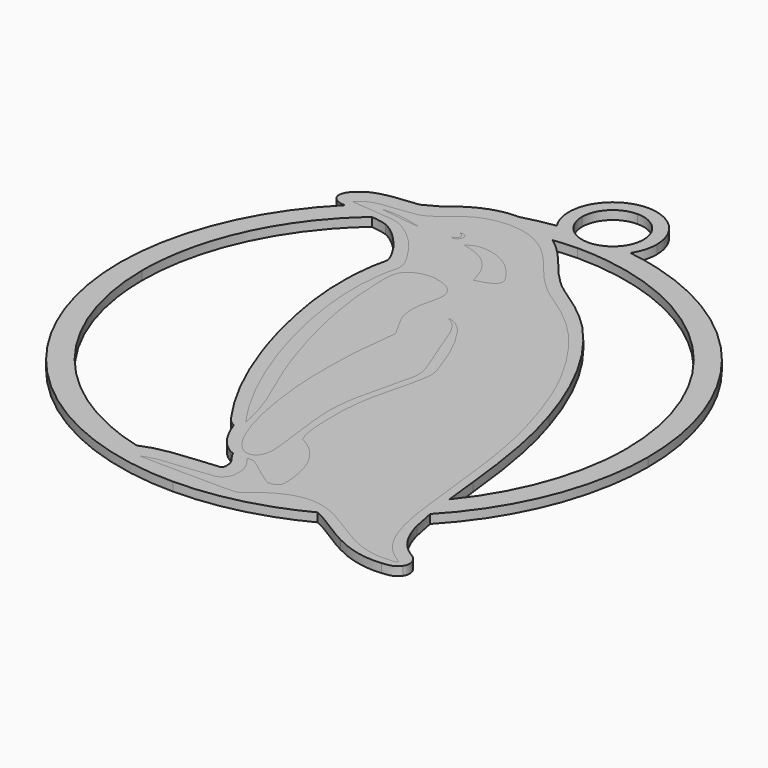
from build123d import *

# Parameters (mm, degrees)
PAD_DEPTH       = 2
POCKET_DEPTH    = 2.001
POCKET001_DEPTH = 2.001
POCKET002_DEPTH = 2.001
PAD001_DEPTH    = 2
POCKET003_DEPTH = 2.001
POCKET004_DEPTH = 2.001
POCKET005_DEPTH = 2.001


with BuildPart() as base:
    # Sketch → Pad (new body)
    with BuildSketch(Plane.XY):
        with BuildLine():
            add(Edge.make_bspline(
                [(100.13239, -65.132458), (90.132575, -65.132758), (90.132483, -75.132365)],
                knots=[1.570826, 1.570826, 1.570826, 3.141583, 3.141583, 3.141583], degree=2, weights=[1, 0.707121, 1]))
            add(Edge.make_bspline(
                [(90.132483, -75.132365), (90.134751, -78.102209), (91.757707, -80.589396)],
                knots=[3.142356, 3.142356, 3.142356, 3.719732, 3.719732, 3.719732], degree=2, weights=[1, 0.958618, 1]))
            add(Edge.make_bspline(
                [(91.757707, -80.589396), (88.025779, -81.140491), (84.392265, -82.154675)],
                knots=[0, 0, 0, 0.125581, 0.125581, 0.125581], degree=2, weights=[1, 0.998029, 1]))
            add(Edge.make_bspline(
                [(84.392265, -82.154675), (84.163042, -82.155004), (83.934076, -82.137701), (83.704968, -82.147441)],
                knots=[0, 0, 0, 0, 1, 1, 1, 1], degree=3))
            add(Edge.make_bspline(
                [(83.704968, -82.147441), (79.179558, -82.226783), (74.869782, -84.299125), (71.587878, -87.34919)],
                knots=[0, 0, 0, 0, 1, 1, 1, 1], degree=3))
            add(Edge.make_bspline(
                [(71.587878, -87.34919), (69.601855, -88.33557), (67.694059, -89.465857)],
                knots=[0, 0, 0, 0.073882, 0.073882, 0.073882], degree=2, weights=[1, 0.999318, 1]))
            add(Edge.make_bspline(
                [(67.694059, -89.465857), (67.40317, -89.518331), (67.108608, -89.555149), (66.805741, -89.555257)],
                knots=[0, 0, 0, 0, 1, 1, 1, 1], degree=3))
            add(Edge.make_bspline(
                [(66.805741, -89.555257), (63.444234, -90.059081), (59.759749, -89.918735), (56.802218, -91.872428)],
                knots=[0, 0, 0, 0, 1, 1, 1, 1], degree=3))
            add(Edge.make_bspline(
                [(56.802218, -91.872428), (55.552251, -92.734481), (54.203645, -93.953245), (54.132613, -95.56936)],
                knots=[0, 0, 0, 0, 1, 1, 1, 1], degree=3))
            add(Edge.make_bspline(
                [(54.132613, -95.56936), (54.261775, -97.125902), (55.949805, -97.96569), (57.366524, -97.901001)],
                knots=[0, 0, 0, 0, 1, 1, 1, 1], degree=3))
            add(Edge.make_bspline(
                [(57.366524, -97.901001), (57.402119, -97.905128), (57.438392, -97.905783), (57.474011, -97.909786)],
                knots=[0, 0, 0, 0, 1, 1, 1, 1], degree=3))
            add(Edge.make_bspline(
                [(57.474011, -97.909786), (40.097219, -115.368172), (40.000142, -140.00024)],
                knots=[0, 0, 0, 0.779115, 0.779115, 0.779115], degree=2, weights=[1, 0.925077, 1]))
            add(Edge.make_bspline(
                [(40.000142, -140.00024), (40.000182, -200.000158), (100.0001, -200.0002)],
                knots=[0, 0, 0, 1.570795, 1.570795, 1.570795], degree=2, weights=[1, 0.707107, 1]))
            add(Edge.make_bspline(
                [(100.0001, -200.0002), (114.551232, -199.928042), (127.45269, -193.19803)],
                knots=[0, 0, 0, 0.475856, 0.475856, 0.475856], degree=2, weights=[1, 0.971828, 1]))
            add(Edge.make_bspline(
                [(127.45269, -193.19803), (130.85752, -194.73169), (133.80784, -197.1315), (137.1415, -198.81474)],
                knots=[0, 0, 0, 0, 1, 1, 1, 1], degree=3))
            add(Edge.make_bspline(
                [(137.1415, -198.81474), (140.58823, -200.67784), (144.54145, -201.73762), (148.47311, -201.32415)],
                knots=[0, 0, 0, 0, 1, 1, 1, 1], degree=3))
            add(Edge.make_bspline(
                [(148.47311, -201.32415), (149.79825, -201.23535), (151.33971, -201.02466), (152.12198, -199.80279)],
                knots=[0, 0, 0, 0, 1, 1, 1, 1], degree=3))
            add(Edge.make_bspline(
                [(152.12198, -199.80279), (153.09506, -198.39864), (152.24455, -196.43393), (150.85798, -195.65937)],
                knots=[0, 0, 0, 0, 1, 1, 1, 1], degree=3))
            add(Edge.make_bspline(
                [(150.85798, -195.65937), (147.33796, -193.74497), (145.35633, -189.91687), (144.44183, -186.14781)],
                knots=[0, 0, 0, 0, 1, 1, 1, 1], degree=3))
            add(Edge.make_bspline(
                [(144.44183, -186.14781), (144.04118, -184.50507), (143.72446, -182.84784), (143.45378, -181.18326)],
                knots=[0, 0, 0, 0, 1, 1, 1, 1], degree=3))
            add(Edge.make_bspline(
                [(143.45378, -181.18326), (159.924063, -163.885152), (160.00005, -140.00024)],
                knots=[0, 0, 0, 0.757707, 0.757707, 0.757707], degree=2, weights=[1, 0.929089, 1]))
            add(Edge.make_bspline(
                [(160.00005, -140.00024), (159.994034, -87.974114), (108.49157, -80.6111)],
                knots=[0, 0, 0, 1.428679, 1.428679, 1.428679], degree=2, weights=[1, 0.755526, 1]))
            add(Edge.make_bspline(
                [(108.49157, -80.6111), (110.129705, -78.116622), (110.13281, -75.132365)],
                knots=[5.702121, 5.702121, 5.702121, 6.282145, 6.282145, 6.282145], degree=2, weights=[1, 0.95824, 1]))
            add(Edge.make_bspline(
                [(110.13281, -75.132365), (110.132718, -65.132245), (100.13239, -65.132458)],
                knots=[9e-06, 9e-06, 9e-06, 1.570818, 1.570818, 1.570818], degree=2, weights=[1, 0.707103, 1]))
        make_face()
    extrude(amount=PAD_DEPTH)

    # Sketch001 → Pocket (cut, through all)
    with BuildSketch(Plane.XY):
        with BuildLine():
            add(Edge.make_bspline(
                [(100.13239, -68.132275), (107.13257, -68.132185), (107.13248, -75.132365)],
                knots=[0, 0, 0, 1.570822, 1.570822, 1.570822], degree=2, weights=[1, 0.707098, 1]))
            add(Edge.make_bspline(
                [(107.13248, -75.132365), (107.132569, -82.132544), (100.13239, -82.132454)],
                knots=[0, 0, 0, 1.570822, 1.570822, 1.570822], degree=2, weights=[1, 0.707098, 1]))
            add(Edge.make_bspline(
                [(100.13239, -82.132454), (93.132211, -82.132544), (93.1323, -75.132365)],
                knots=[0, 0, 0, 1.570822, 1.570822, 1.570822], degree=2, weights=[1, 0.707098, 1]))
            add(Edge.make_bspline(
                [(93.1323, -75.132365), (93.13221, -68.132185), (100.13239, -68.132275)],
                knots=[0, 0, 0, 1.570822, 1.570822, 1.570822], degree=2, weights=[1, 0.707098, 1]))
        make_face()
    extrude(amount=POCKET_DEPTH, mode=Mode.SUBTRACT)

    # Sketch002 → Pocket001 (cut, through all)
    with BuildSketch(Plane.XY):
        with BuildLine():
            add(Edge.make_bspline(
                [(100.0001, -84.99998), (155.0001, -85.00024), (154.99984, -140.00024)],
                knots=[0, 0, 0, 1.570796, 1.570796, 1.570796], degree=2, weights=[1, 0.707107, 1]))
            add(Edge.make_bspline(
                [(154.99984, -140.00024), (154.94592, -159.5252), (142.59285, -174.64567)],
                knots=[0, 0, 0, 0.682245, 0.682245, 0.682245], degree=2, weights=[1, 0.94238, 1]))
            add(Edge.make_bspline(
                [(142.59285, -174.64567), (142.30732, -172.07276), (142.04907, -169.49543), (141.72727, -166.9309)],
                knots=[0, 0, 0, 0, 1, 1, 1, 1], degree=3))
            add(Edge.make_bspline(
                [(141.72727, -166.9309), (140.69401, -157.32799), (139.34309, -147.6899), (136.3276, -138.48147)],
                knots=[0, 0, 0, 0, 1, 1, 1, 1], degree=3))
            add(Edge.make_bspline(
                [(136.3276, -138.48147), (132.86735, -127.39026), (127.58849, -116.64887), (119.57668, -108.12312)],
                knots=[0, 0, 0, 0, 1, 1, 1, 1], degree=3))
            add(Edge.make_bspline(
                [(119.57668, -108.12312), (116.22814, -104.58926), (112.22233, -101.78093), (108.18668, -99.09731)],
                knots=[0, 0, 0, 0, 1, 1, 1, 1], degree=3))
            add(Edge.make_bspline(
                [(108.18668, -99.09731), (105.06872, -96.869752), (102.66642, -93.84849), (100.29207, -90.883341)],
                knots=[0, 0, 0, 0, 1, 1, 1, 1], degree=3))
            add(Edge.make_bspline(
                [(100.29207, -90.883341), (98.635381, -88.846742), (96.769237, -86.899828), (94.613863, -85.384969)],
                knots=[0, 0, 0, 0, 1, 1, 1, 1], degree=3))
            add(Edge.make_bspline(
                [(94.613863, -85.384969), (97.29752, -85.060108), (100.0001, -84.99998)],
                knots=[0, 0, 0, 0.098221, 0.098221, 0.098221], degree=2, weights=[1, 0.998794, 1]))
        make_face()
    extrude(amount=POCKET001_DEPTH, mode=Mode.SUBTRACT)

    # Sketch003 → Pocket002 (cut, through all)
    with BuildSketch(Plane.XY):
        with BuildLine():
            add(Edge.make_bspline(
                [(63.972323, -98.44412), (65.217254, -98.585338), (66.453626, -98.775554), (67.656335, -99.154154)],
                knots=[0, 0, 0, 0, 1, 1, 1, 1], degree=3))
            add(Edge.make_bspline(
                [(67.656335, -99.154154), (70.421494, -100.45576), (72.507668, -102.82601), (74.305542, -105.23285)],
                knots=[0, 0, 0, 0, 1, 1, 1, 1], degree=3))
            add(Edge.make_bspline(
                [(74.305542, -105.23285), (75.233625, -106.59946), (76.194172, -108.049), (76.57207, -109.66514)],
                knots=[0, 0, 0, 0, 1, 1, 1, 1], degree=3))
            add(Edge.make_bspline(
                [(76.57207, -109.66514), (76.439562, -111.18503), (75.836884, -112.62258), (75.780904, -114.15634)],
                knots=[0, 0, 0, 0, 1, 1, 1, 1], degree=3))
            add(Edge.make_bspline(
                [(75.780904, -114.15634), (74.462055, -123.99134), (76.136871, -133.95281), (78.695972, -143.45119)],
                knots=[0, 0, 0, 0, 1, 1, 1, 1], degree=3))
            add(Edge.make_bspline(
                [(78.695972, -143.45119), (81.744376, -154.5912), (86.31477, -165.42629), (93.049101, -174.85599)],
                knots=[0, 0, 0, 0, 1, 1, 1, 1], degree=3))
            add(Edge.make_bspline(
                [(93.049101, -174.85599), (93.541671, -175.44745), (94.153142, -175.95108), (94.859326, -176.26469)],
                knots=[0, 0, 0, 0, 1, 1, 1, 1], degree=3))
            add(Edge.make_bspline(
                [(94.859326, -176.26469), (96.034047, -179.41949), (97.643361, -182.71861), (100.66362, -184.47763)],
                knots=[0, 0, 0, 0, 1, 1, 1, 1], degree=3))
            add(Edge.make_bspline(
                [(100.66362, -184.47763), (101.00519, -184.75835), (101.66388, -184.64958), (101.72247, -185.18818)],
                knots=[0, 0, 0, 0, 1, 1, 1, 1], degree=3))
            add(Edge.make_bspline(
                [(101.72247, -185.18818), (102.27902, -186.40435), (103.53641, -187.30078), (103.55854, -188.73525)],
                knots=[0, 0, 0, 0, 1, 1, 1, 1], degree=3))
            add(Edge.make_bspline(
                [(103.55854, -188.73525), (103.65564, -189.3467), (103.67502, -190.41437), (102.79528, -190.36151)],
                knots=[0, 0, 0, 0, 1, 1, 1, 1], degree=3))
            add(Edge.make_bspline(
                [(102.79528, -190.36151), (98.270548, -190.94624), (93.641083, -190.92358), (89.211092, -192.10559)],
                knots=[0, 0, 0, 0, 1, 1, 1, 1], degree=3))
            add(Edge.make_bspline(
                [(89.211092, -192.10559), (88.219287, -192.40528), (87.253636, -192.77298), (86.296025, -193.16185)],
                knots=[0, 0, 0, 0, 1, 1, 1, 1], degree=3))
            add(Edge.make_bspline(
                [(86.296025, -193.16185), (45.080187, -182.558165), (44.999837, -140.00024)],
                knots=[0, 0, 0, 1.317097, 1.317097, 1.317097], degree=2, weights=[1, 0.790881, 1]))
            add(Edge.make_bspline(
                [(44.999837, -140.00024), (45.000425, -114.891495), (63.972323, -98.44412)],
                knots=[0, 0, 0, 0.85653, 0.85653, 0.85653], degree=2, weights=[1, 0.909688, 1]))
        make_face()
    extrude(amount=POCKET002_DEPTH, mode=Mode.SUBTRACT)


with BuildPart() as penguin:
    # Sketch006 → Pad001 (new body)
    with BuildSketch(Plane.XY):
        with BuildLine():
            add(Edge.make_bspline(
                [(145.86436, -199.52435), (144.3568, -199.37615), (142.21203, -198.77368), (140.56563, -198.03591)],
                knots=[0, 0, 0, 0, 1, 1, 1, 1], degree=3))
            add(Edge.make_bspline(
                [(140.56563, -198.03591), (139.26485, -197.45301), (138.29522, -196.90314), (135.23786, -195.01453)],
                knots=[0, 0, 0, 0, 1, 1, 1, 1], degree=3))
            add(Edge.make_bspline(
                [(135.23786, -195.01453), (130.61154, -192.15674), (129.97752, -191.80707), (128.242, -191.15623)],
                knots=[0, 0, 0, 0, 1, 1, 1, 1], degree=3))
            add(Edge.make_bspline(
                [(128.242, -191.15623), (124.57705, -189.78182), (121.46835, -189.9311), (117.91832, -191.652)],
                knots=[0, 0, 0, 0, 1, 1, 1, 1], degree=3))
            add(Edge.make_bspline(
                [(117.91832, -191.652), (116.16924, -192.49987), (115.25727, -193.11131), (113.74761, -194.44828)],
                knots=[0, 0, 0, 0, 1, 1, 1, 1], degree=3))
            add(Edge.make_bspline(
                [(113.74761, -194.44828), (112.66337, -195.4085), (112.05222, -195.81249), (111.32454, -196.05003)],
                knots=[0, 0, 0, 0, 1, 1, 1, 1], degree=3))
            add(Edge.make_bspline(
                [(111.32454, -196.05003), (110.83154, -196.21096), (110.10616, -196.21767), (100.5749, -196.14953)],
                knots=[0, 0, 0, 0, 1, 1, 1, 1], degree=3))
            add(Edge.make_bspline(
                [(100.5749, -196.14953), (94.953368, -196.10933), (90.07638, -196.04632), (89.73715, -196.00953)],
                knots=[0, 0, 0, 0, 1, 1, 1, 1], degree=3))
            add(Edge.make_bspline(
                [(89.73715, -196.00953), (89.120367, -195.94263)],
                knots=[0, 0, 0.620401, 0.620401], degree=1))
            add(Edge.make_bspline(
                [(89.120367, -195.94263), (90.442044, -195.5206)],
                knots=[0, 0, 1.387422, 1.387422], degree=1))
            add(Edge.make_bspline(
                [(90.442044, -195.5206), (91.168966, -195.28849), (92.021448, -195.0523), (92.336448, -194.99574)],
                knots=[0, 0, 0, 0, 1, 1, 1, 1], degree=3))
            add(Edge.make_bspline(
                [(92.336448, -194.99574), (93.165919, -194.84681), (97.061475, -194.44084), (100.9714, -194.09586)],
                knots=[0, 0, 0, 0, 1, 1, 1, 1], degree=3))
            add(Edge.make_bspline(
                [(100.9714, -194.09586), (102.83717, -193.93124), (104.52231, -193.74674), (104.71615, -193.68586)],
                knots=[0, 0, 0, 0, 1, 1, 1, 1], degree=3))
            add(Edge.make_bspline(
                [(104.71615, -193.68586), (105.52661, -193.43132), (106.36143, -192.61173), (106.72855, -191.71019)],
                knots=[0, 0, 0, 0, 1, 1, 1, 1], degree=3))
            add(Edge.make_bspline(
                [(106.72855, -191.71019), (106.89243, -191.30776), (106.91842, -191.06851), (106.91512, -189.99263)],
                knots=[0, 0, 0, 0, 1, 1, 1, 1], degree=3))
            add(Edge.make_bspline(
                [(106.91512, -189.99263), (106.91212, -188.87561), (106.88592, -188.66954), (106.6728, -188.05569)],
                knots=[0, 0, 0, 0, 1, 1, 1, 1], degree=3))
            add(Edge.make_bspline(
                [(106.6728, -188.05569), (106.33423, -187.08049), (105.87495, -186.26543), (105.21997, -185.47744)],
                knots=[0, 0, 0, 0, 1, 1, 1, 1], degree=3))
            add(Edge.make_bspline(
                [(105.21997, -185.47744), (104.5614, -184.68513), (104.58315, -184.64059), (105.59278, -184.71413)],
                knots=[0, 0, 0, 0, 1, 1, 1, 1], degree=3))
            add(Edge.make_bspline(
                [(105.59278, -184.71413), (106.37932, -184.77143), (106.21361, -184.66663), (109.93528, -187.46129)],
                knots=[0, 0, 0, 0, 1, 1, 1, 1], degree=3))
            add(Edge.make_bspline(
                [(109.93528, -187.46129), (113.07424, -189.81842), (113.1947, -189.88195), (114.18303, -189.70131)],
                knots=[0, 0, 0, 0, 1, 1, 1, 1], degree=3))
            add(Edge.make_bspline(
                [(114.18303, -189.70131), (114.90213, -189.56987), (115.48541, -189.24285), (115.69435, -188.85398)],
                knots=[0, 0, 0, 0, 1, 1, 1, 1], degree=3))
            add(Edge.make_bspline(
                [(115.69435, -188.85398), (116.10238, -188.09455), (115.72335, -184.17716), (115.01107, -181.79263)],
                knots=[0, 0, 0, 0, 1, 1, 1, 1], degree=3))
            add(Edge.make_bspline(
                [(115.01107, -181.79263), (114.321, -179.48235), (113.29705, -177.56986), (111.9024, -175.98633)],
                knots=[0, 0, 0, 0, 1, 1, 1, 1], degree=3))
            add(Edge.make_bspline(
                [(111.9024, -175.98633), (110.87508, -174.81989), (109.99916, -174.11432), (108.70673, -173.41217)],
                knots=[0, 0, 0, 0, 1, 1, 1, 1], degree=3))
            add(Edge.make_bspline(
                [(108.70673, -173.41217), (107.85115, -172.94736)],
                knots=[0, 0, 0.973687, 0.973687], degree=1))
            add(Edge.make_bspline(
                [(107.85115, -172.94736), (107.50062, -172.09113)],
                knots=[0, 0, 0.925203, 0.925203], degree=1))
            add(Edge.make_bspline(
                [(107.50062, -172.09113), (106.84392, -170.48702), (106.72603, -169.58834), (106.50812, -164.52563)],
                knots=[0, 0, 0, 0, 1, 1, 1, 1], degree=3))
            add(Edge.make_bspline(
                [(106.50812, -164.52563), (106.26449, -158.8652), (106.79415, -154.24471), (108.33106, -148.6231)],
                knots=[0, 0, 0, 0, 1, 1, 1, 1], degree=3))
            add(Edge.make_bspline(
                [(108.33106, -148.6231), (108.92728, -146.44228), (110.00357, -141.54469), (110.13632, -140.40835)],
                knots=[0, 0, 0, 0, 1, 1, 1, 1], degree=3))
            add(Edge.make_bspline(
                [(110.13632, -140.40835), (110.30875, -138.93234), (110.16502, -138.10874), (109.29598, -135.59263)],
                knots=[0, 0, 0, 0, 1, 1, 1, 1], degree=3))
            add(Edge.make_bspline(
                [(109.29598, -135.59263), (107.5335, -130.48983), (105.65692, -126.57863), (103.54973, -123.6162)],
                knots=[0, 0, 0, 0, 1, 1, 1, 1], degree=3))
            add(Edge.make_bspline(
                [(103.54973, -123.6162), (102.29373, -121.85044), (100.76461, -120.71005), (99.297279, -120.4448)],
                knots=[0, 0, 0, 0, 1, 1, 1, 1], degree=3))
            add(Edge.make_bspline(
                [(99.297279, -120.4448), (98.900776, -120.3731)],
                knots=[0, 0, 0.402934, 0.402934], degree=1))
            add(Edge.make_bspline(
                [(98.900776, -120.3731), (99.517558, -120.73054)],
                knots=[0, 0, 0.71287, 0.71287], degree=1))
            add(Edge.make_bspline(
                [(99.517558, -120.73054), (100.83945, -121.4966), (101.7641, -122.64788), (102.66771, -124.65276)],
                knots=[0, 0, 0, 0, 1, 1, 1, 1], degree=3))
            add(Edge.make_bspline(
                [(102.66771, -124.65276), (103.33167, -126.12593), (107.62852, -137.12536), (107.95695, -138.19261)],
                knots=[0, 0, 0, 0, 1, 1, 1, 1], degree=3))
            add(Edge.make_bspline(
                [(107.95695, -138.19261), (108.26934, -139.2077), (108.37216, -140.73557), (108.2031, -141.85002)],
                knots=[0, 0, 0, 0, 1, 1, 1, 1], degree=3))
            add(Edge.make_bspline(
                [(108.2031, -141.85002), (108.1453, -142.23094), (107.7064, -144.11761), (107.22773, -146.04261)],
                knots=[0, 0, 0, 0, 1, 1, 1, 1], degree=3))
            add(Edge.make_bspline(
                [(107.22773, -146.04261), (105.24374, -154.02133), (104.92795, -155.62943), (104.6748, -159.04261)],
                knots=[0, 0, 0, 0, 1, 1, 1, 1], degree=3))
            add(Edge.make_bspline(
                [(104.6748, -159.04261), (104.45603, -161.99231), (104.5837, -164.18293), (105.29816, -169.74261)],
                knots=[0, 0, 0, 0, 1, 1, 1, 1], degree=3))
            add(Edge.make_bspline(
                [(105.29816, -169.74261), (106.4398, -178.62587), (106.48566, -179.17189), (106.21373, -180.64261)],
                knots=[0, 0, 0, 0, 1, 1, 1, 1], degree=3))
            add(Edge.make_bspline(
                [(106.21373, -180.64261), (105.9387, -182.1301), (105.32436, -182.94551), (104.29618, -183.18776)],
                knots=[0, 0, 0, 0, 1, 1, 1, 1], degree=3))
            add(Edge.make_bspline(
                [(104.29618, -183.18776), (102.43661, -183.62589), (100.42053, -181.66735), (98.639981, -177.69301)],
                knots=[0, 0, 0, 0, 1, 1, 1, 1], degree=3))
            add(Edge.make_bspline(
                [(98.639981, -177.69301), (96.653729, -173.25952), (95.065106, -166.0063), (94.36894, -158.19261)],
                knots=[0, 0, 0, 0, 1, 1, 1, 1], degree=3))
            add(Edge.make_bspline(
                [(94.36894, -158.19261), (94.058355, -154.70663), (93.984516, -152.36232), (94.037385, -147.66609)],
                knots=[0, 0, 0, 0, 1, 1, 1, 1], degree=3))
            add(Edge.make_bspline(
                [(94.037385, -147.66609), (94.102115, -141.91647), (94.181049, -140.77053), (94.944816, -134.49261)],
                knots=[0, 0, 0, 0, 1, 1, 1, 1], degree=3))
            add(Edge.make_bspline(
                [(94.944816, -134.49261), (95.162282, -132.70511), (95.317678, -131.10169), (95.290141, -130.92947)],
                knots=[0, 0, 0, 0, 1, 1, 1, 1], degree=3))
            add(Edge.make_bspline(
                [(95.290141, -130.92947), (95.262601, -130.75724), (94.720417, -129.72224), (94.085283, -128.62947)],
                knots=[0, 0, 0, 0, 1, 1, 1, 1], degree=3))
            add(Edge.make_bspline(
                [(94.085283, -128.62947), (92.130393, -125.266), (91.782989, -124.22822), (91.779864, -121.74261)],
                knots=[0, 0, 0, 0, 1, 1, 1, 1], degree=3))
            add(Edge.make_bspline(
                [(91.779864, -121.74261), (91.777764, -120.06628), (91.906713, -119.21184), (92.465876, -117.19718)],
                knots=[0, 0, 0, 0, 1, 1, 1, 1], degree=3))
            add(Edge.make_bspline(
                [(92.465876, -117.19718), (93.168538, -114.6655), (93.046312, -113.23843), (92.020184, -111.9934)],
                knots=[0, 0, 0, 0, 1, 1, 1, 1], degree=3))
            add(Edge.make_bspline(
                [(92.020184, -111.9934), (91.312157, -111.13433), (90.378869, -110.60194), (88.76792, -110.13813)],
                knots=[0, 0, 0, 0, 1, 1, 1, 1], degree=3))
            add(Edge.make_bspline(
                [(88.76792, -110.13813), (85.514806, -109.20154), (82.024017, -110.36809), (81.056649, -112.71508)],
                knots=[0, 0, 0, 0, 1, 1, 1, 1], degree=3))
            add(Edge.make_bspline(
                [(81.056649, -112.71508), (80.65935, -113.67899), (80.589015, -114.54369), (80.647706, -117.74261)],
                knots=[0, 0, 0, 0, 1, 1, 1, 1], degree=3))
            add(Edge.make_bspline(
                [(80.647706, -117.74261), (80.786525, -125.3089), (82.138358, -133.37918), (84.855492, -142.86258)],
                knots=[0, 0, 0, 0, 1, 1, 1, 1], degree=3))
            add(Edge.make_bspline(
                [(84.855492, -142.86258), (86.572109, -148.85395), (88.269755, -153.55323), (90.682579, -158.99261)],
                knots=[0, 0, 0, 0, 1, 1, 1, 1], degree=3))
            add(Edge.make_bspline(
                [(90.682579, -158.99261), (93.064477, -164.36227), (93.875504, -166.43364), (94.715461, -169.29261)],
                knots=[0, 0, 0, 0, 1, 1, 1, 1], degree=3))
            add(Edge.make_bspline(
                [(94.715461, -169.29261), (95.144353, -170.75243), (95.896389, -173.98568), (95.825703, -174.06591)],
                knots=[0, 0, 0, 0, 1, 1, 1, 1], degree=3))
            add(Edge.make_bspline(
                [(95.825703, -174.06591), (95.769563, -174.12961), (93.297838, -170.35461), (92.372962, -168.79261)],
                knots=[0, 0, 0, 0, 1, 1, 1, 1], degree=3))
            add(Edge.make_bspline(
                [(92.372962, -168.79261), (86.692191, -159.19846), (82.233097, -147.0931), (80.004861, -135.21622)],
                knots=[0, 0, 0, 0, 1, 1, 1, 1], degree=3))
            add(Edge.make_bspline(
                [(80.004861, -135.21622), (78.946239, -129.57359), (78.509804, -124.58034), (78.683144, -120.09445)],
                knots=[0, 0, 0, 0, 1, 1, 1, 1], degree=3))
            add(Edge.make_bspline(
                [(78.683144, -120.09445), (78.803106, -116.98991), (79.275676, -113.31801), (79.734407, -111.92606)],
                knots=[0, 0, 0, 0, 1, 1, 1, 1], degree=3))
            add(Edge.make_bspline(
                [(79.734407, -111.92606), (80.283014, -110.26139), (79.960446, -109.01976), (78.231906, -106.14261)],
                knots=[0, 0, 0, 0, 1, 1, 1, 1], degree=3))
            add(Edge.make_bspline(
                [(78.231906, -106.14261), (76.501073, -103.26164), (74.543392, -101.02987), (72.126212, -99.182069)],
                knots=[0, 0, 0, 0, 1, 1, 1, 1], degree=3))
            add(Edge.make_bspline(
                [(72.126212, -99.182069), (70.208904, -97.716396), (68.965682, -97.146736), (67.027623, -96.845835)],
                knots=[0, 0, 0, 0, 1, 1, 1, 1], degree=3))
            add(Edge.make_bspline(
                [(67.027623, -96.845835), (66.043068, -96.692974), (62.922979, -96.416914), (59.492779, -96.179167)],
                knots=[0, 0, 0, 0, 1, 1, 1, 1], degree=3))
            add(Edge.make_bspline(
                [(59.492779, -96.179167), (58.511434, -96.111147), (57.710441, -96.030098), (57.712794, -95.999053)],
                knots=[0, 0, 0, 0, 1, 1, 1, 1], degree=3))
            add(Edge.make_bspline(
                [(57.712794, -95.999053), (57.721494, -95.883952), (58.69828, -95.037004), (59.17868, -94.727986)],
                knots=[0, 0, 0, 0, 1, 1, 1, 1], degree=3))
            add(Edge.make_bspline(
                [(59.17868, -94.727986), (59.822429, -94.313895), (60.845589, -93.933366), (61.821348, -93.745138)],
                knots=[0, 0, 0, 0, 1, 1, 1, 1], degree=3))
            add(Edge.make_bspline(
                [(61.821348, -93.745138), (62.248903, -93.662658), (64.026131, -93.434865), (65.770744, -93.238924)],
                knots=[0, 0, 0, 0, 1, 1, 1, 1], degree=3))
            add(Edge.make_bspline(
                [(65.770744, -93.238924), (67.515358, -93.042983), (69.240146, -92.814179), (69.603607, -92.73047)],
                knots=[0, 0, 0, 0, 1, 1, 1, 1], degree=3))
            add(Edge.make_bspline(
                [(69.603607, -92.73047), (70.9967, -92.409626), (72.264819, -91.670885), (74.033454, -90.149868)],
                knots=[0, 0, 0, 0, 1, 1, 1, 1], degree=3))
            add(Edge.make_bspline(
                [(74.033454, -90.149868), (77.322331, -87.321451), (79.619178, -86.187067), (82.953393, -85.74442)],
                knots=[0, 0, 0, 0, 1, 1, 1, 1], degree=3))
            add(Edge.make_bspline(
                [(82.953393, -85.74442), (85.013131, -85.470971), (86.871227, -85.570229), (88.805048, -86.057009)],
                knots=[0, 0, 0, 0, 1, 1, 1, 1], degree=3))
            add(Edge.make_bspline(
                [(88.805048, -86.057009), (90.157423, -86.397428), (91.099811, -86.779178), (92.468615, -87.541075)],
                knots=[0, 0, 0, 0, 1, 1, 1, 1], degree=3))
            add(Edge.make_bspline(
                [(92.468615, -87.541075), (95.068718, -88.98833), (96.888153, -90.719653), (100.14373, -94.844496)],
                knots=[0, 0, 0, 0, 1, 1, 1, 1], degree=3))
            add(Edge.make_bspline(
                [(100.14373, -94.844496), (103.38874, -98.955949), (105.59258, -100.99507), (109.65041, -103.64062)],
                knots=[0, 0, 0, 0, 1, 1, 1, 1], degree=3))
            add(Edge.make_bspline(
                [(109.65041, -103.64062), (113.47554, -106.13446), (116.62586, -108.79011), (119.37546, -111.83863)],
                knots=[0, 0, 0, 0, 1, 1, 1, 1], degree=3))
            add(Edge.make_bspline(
                [(119.37546, -111.83863), (123.95928, -116.92077), (128.49389, -124.32278), (131.42081, -131.50066)],
                knots=[0, 0, 0, 0, 1, 1, 1, 1], degree=3))
            add(Edge.make_bspline(
                [(131.42081, -131.50066), (134.75983, -139.68917), (137.06093, -148.05007), (138.41405, -156.91016)],
                knots=[0, 0, 0, 0, 1, 1, 1, 1], degree=3))
            add(Edge.make_bspline(
                [(138.41405, -156.91016), (138.84735, -159.74734), (139.26521, -163.15892), (140.05317, -170.29261)],
                knots=[0, 0, 0, 0, 1, 1, 1, 1], degree=3))
            add(Edge.make_bspline(
                [(140.05317, -170.29261), (141.28735, -181.46604), (141.66288, -184.04781), (142.56091, -187.5332)],
                knots=[0, 0, 0, 0, 1, 1, 1, 1], degree=3))
            add(Edge.make_bspline(
                [(142.56091, -187.5332), (143.95196, -192.93212), (146.22436, -196.3303), (150.00561, -198.66611)],
                knots=[0, 0, 0, 0, 1, 1, 1, 1], degree=3))
            add(Edge.make_bspline(
                [(150.00561, -198.66611), (150.91198, -199.22601), (150.84989, -199.31926), (149.47694, -199.46014)],
                knots=[0, 0, 0, 0, 1, 1, 1, 1], degree=3))
            add(Edge.make_bspline(
                [(149.47694, -199.46014), (148.39907, -199.57074), (146.65219, -199.60179), (145.86436, -199.52434)],
                knots=[0, 0, 0, 0, 1, 1, 1, 1], degree=3))
            add(Edge.make_bspline(
                [(145.86436, -199.52434), (145.86436, -199.52435)],
                knots=[0, 0, 1e-05, 1e-05], degree=1))
        make_face()
    extrude(amount=PAD001_DEPTH)

    # Sketch007 → Pocket003 (cut, through all)
    with BuildSketch(Plane.XY):
        with BuildLine():
            add(Edge.make_bspline(
                [(94.501788, -105.8947), (95.623524, -105.59045), (96.63733, -105.12094), (97.17525, -104.65658)],
                knots=[0, 0, 0, 0, 1, 1, 1, 1], degree=3))
            add(Edge.make_bspline(
                [(97.17525, -104.65658), (97.803228, -104.11447), (97.946419, -103.51793), (97.634671, -102.74262)],
                knots=[0, 0, 0, 0, 1, 1, 1, 1], degree=3))
            add(Edge.make_bspline(
                [(97.634671, -102.74262), (97.197492, -101.65536), (95.418441, -99.432086), (94.045055, -98.256688)],
                knots=[0, 0, 0, 0, 1, 1, 1, 1], degree=3))
            add(Edge.make_bspline(
                [(94.045055, -98.256688), (93.09383, -97.442591), (91.254701, -96.38846), (90.180337, -96.04155)],
                knots=[0, 0, 0, 0, 1, 1, 1, 1], degree=3))
            add(Edge.make_bspline(
                [(90.180337, -96.04155), (88.504104, -95.5003), (86.573983, -95.336044), (85.504268, -95.643611)],
                knots=[0, 0, 0, 0, 1, 1, 1, 1], degree=3))
            add(Edge.make_bspline(
                [(85.504268, -95.643611), (84.971472, -95.796802), (83.477489, -96.571724), (83.551973, -96.656258)],
                knots=[0, 0, 0, 0, 1, 1, 1, 1], degree=3))
            add(Edge.make_bspline(
                [(83.551973, -96.656258), (83.574323, -96.681628), (84.063174, -96.811216), (84.638308, -96.944242)],
                knots=[0, 0, 0, 0, 1, 1, 1, 1], degree=3))
            add(Edge.make_bspline(
                [(84.638308, -96.944242), (87.25234, -97.548857), (89.093199, -98.607317), (90.580926, -100.36114)],
                knots=[0, 0, 0, 0, 1, 1, 1, 1], degree=3))
            add(Edge.make_bspline(
                [(90.580926, -100.36114), (91.732121, -101.71824), (92.497147, -103.26577), (92.950409, -105.15426)],
                knots=[0, 0, 0, 0, 1, 1, 1, 1], degree=3))
            add(Edge.make_bspline(
                [(92.950409, -105.15426), (93.202847, -106.20602), (93.198235, -106.19262), (93.307708, -106.19262)],
                knots=[0, 0, 0, 0, 1, 1, 1, 1], degree=3))
            add(Edge.make_bspline(
                [(93.307708, -106.19262), (93.360328, -106.19262), (93.897664, -106.05855), (94.501788, -105.8947)],
                knots=[0, 0, 0, 0, 1, 1, 1, 1], degree=3))
        make_face()
    extrude(amount=POCKET003_DEPTH, mode=Mode.SUBTRACT)

    # Sketch009 → Pocket004 (cut, through all)
    with BuildSketch(Plane.XY):
        with BuildLine():
            add(Edge.make_bspline(
                [(80.875796, -95.746209), (81.183494, -95.565623), (81.569095, -95.057537), (81.639269, -94.740221)],
                knots=[0, 0, 0, 0, 1, 1, 1, 1], degree=3))
            add(Edge.make_bspline(
                [(81.639269, -94.740221), (81.713939, -94.402577), (81.524618, -93.830273), (81.260157, -93.594181)],
                knots=[0, 0, 0, 0, 1, 1, 1, 1], degree=3))
            add(Edge.make_bspline(
                [(81.260157, -93.594181), (81.015993, -93.376208), (80.328864, -93.316624), (80.088909, -93.492617)],
                knots=[0, 0, 0, 0, 1, 1, 1, 1], degree=3))
            add(Edge.make_bspline(
                [(80.088909, -93.492617), (79.977418, -93.574387), (79.982226, -93.589797), (80.119649, -93.591087)],
                knots=[0, 0, 0, 0, 1, 1, 1, 1], degree=3))
            add(Edge.make_bspline(
                [(80.119649, -93.591087), (80.424811, -93.593987), (80.865315, -93.905712), (80.970177, -94.193029)],
                knots=[0, 0, 0, 0, 1, 1, 1, 1], degree=3))
            add(Edge.make_bspline(
                [(80.970177, -94.193029), (81.194262, -94.80701), (80.839218, -95.39381), (80.141896, -95.561972)],
                knots=[0, 0, 0, 0, 1, 1, 1, 1], degree=3))
            add(Edge.make_bspline(
                [(80.141896, -95.561972), (79.903536, -95.619452), (79.89731, -95.632542), (80.048596, -95.758091)],
                knots=[0, 0, 0, 0, 1, 1, 1, 1], degree=3))
            add(Edge.make_bspline(
                [(80.048596, -95.758091), (80.259579, -95.93318), (80.564683, -95.928798), (80.875795, -95.746211)],
                knots=[0, 0, 0, 0, 1, 1, 1, 1], degree=3))
            add(Edge.make_bspline(
                [(80.875795, -95.746211), (80.875796, -95.746209)],
                knots=[0, 0, 2e-06, 2e-06], degree=1))
        make_face()
    extrude(amount=POCKET004_DEPTH, mode=Mode.SUBTRACT)

    # Sketch008 → Pocket005 (cut, through all)
    with BuildSketch(Plane.XY):
        with BuildLine():
            add(Edge.make_bspline(
                [(72.46724, -96.083872), (72.321855, -96.033522), (71.5685, -95.836777), (70.793116, -95.646671)],
                knots=[0, 0, 0, 0, 1, 1, 1, 1], degree=3))
            add(Edge.make_bspline(
                [(70.793116, -95.646671), (68.436613, -95.068914), (66.110591, -94.806178), (64.537303, -94.940047)],
                knots=[0, 0, 0, 0, 1, 1, 1, 1], degree=3))
            add(Edge.make_bspline(
                [(64.537303, -94.940047), (64.070238, -94.979787), (63.701522, -95.027547), (63.717933, -95.04617)],
                knots=[0, 0, 0, 0, 1, 1, 1, 1], degree=3))
            add(Edge.make_bspline(
                [(63.717933, -95.04617), (63.746423, -95.07851), (68.519501, -95.738501), (70.837172, -96.030575)],
                knots=[0, 0, 0, 0, 1, 1, 1, 1], degree=3))
            add(Edge.make_bspline(
                [(70.837172, -96.030575), (71.44294, -96.106915), (72.116996, -96.170735), (72.335072, -96.1724)],
                knots=[0, 0, 0, 0, 1, 1, 1, 1], degree=3))
            add(Edge.make_bspline(
                [(72.335072, -96.1724), (72.707255, -96.1752), (72.715362, -96.1698), (72.46724, -96.08387)],
                knots=[0, 0, 0, 0, 1, 1, 1, 1], degree=3))
            add(Edge.make_bspline(
                [(72.46724, -96.08387), (72.46724, -96.083872)],
                knots=[0, 0, 2e-06, 2e-06], degree=1))
        make_face()
    extrude(amount=POCKET005_DEPTH, mode=Mode.SUBTRACT)


solid = Compound([base.part, penguin.part])
